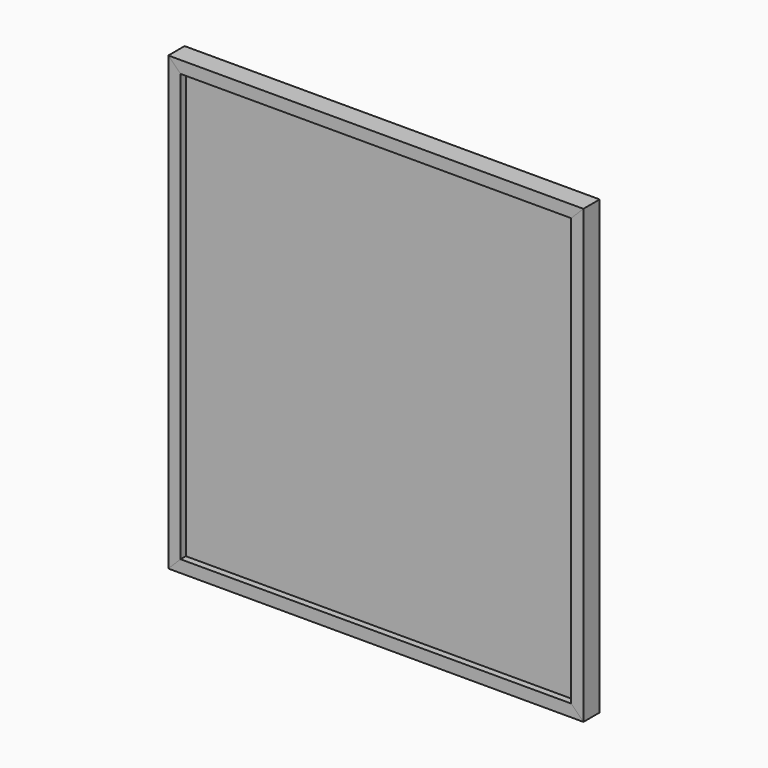
from build123d import *

# Parameters (mm, degrees)
F0_W     = 609.6
F0_H     = 666.75
F1_DEPTH = 21.43125
F2_DEPTH = 31.75
F3_DEPTH = 31.75
F4_DEPTH = 31.75
F5_DEPTH = 31.75


with BuildPart() as f1:
    # F0 (on Front) → F1 (new body)
    with BuildSketch(Plane.XZ):
        Rectangle(F0_W, F0_H)
    extrude(amount=F1_DEPTH)


with BuildPart() as f2:
    # F0 (on Front) → F2 (new body)
    with BuildSketch(Plane.XZ):
        Polygon((-323.85, 352.425), (-304.8, 333.375), (304.8, 333.375), (323.85, 352.425), align=None)
    extrude(amount=F2_DEPTH)


with BuildPart() as f3:
    # F0 (on Front) → F3 (new body)
    with BuildSketch(Plane.XZ):
        Polygon((-304.8, -333.375), (-304.8, 333.375), (-323.85, 352.425), (-323.85, -352.425), align=None)
    extrude(amount=F3_DEPTH)


with BuildPart() as f4:
    # F0 (on Front) → F4 (new body)
    with BuildSketch(Plane.XZ):
        Polygon((304.8, -333.375), (-304.8, -333.375), (-323.85, -352.425), (323.85, -352.425), align=None)
    extrude(amount=F4_DEPTH)


with BuildPart() as f5:
    # F0 (on Front) → F5 (new body)
    with BuildSketch(Plane.XZ):
        Polygon((323.85, 352.425), (304.8, 333.375), (304.8, -333.375), (323.85, -352.425), align=None)
    extrude(amount=F5_DEPTH)


solid = Compound([f1.part, f2.part, f3.part, f4.part, f5.part])
